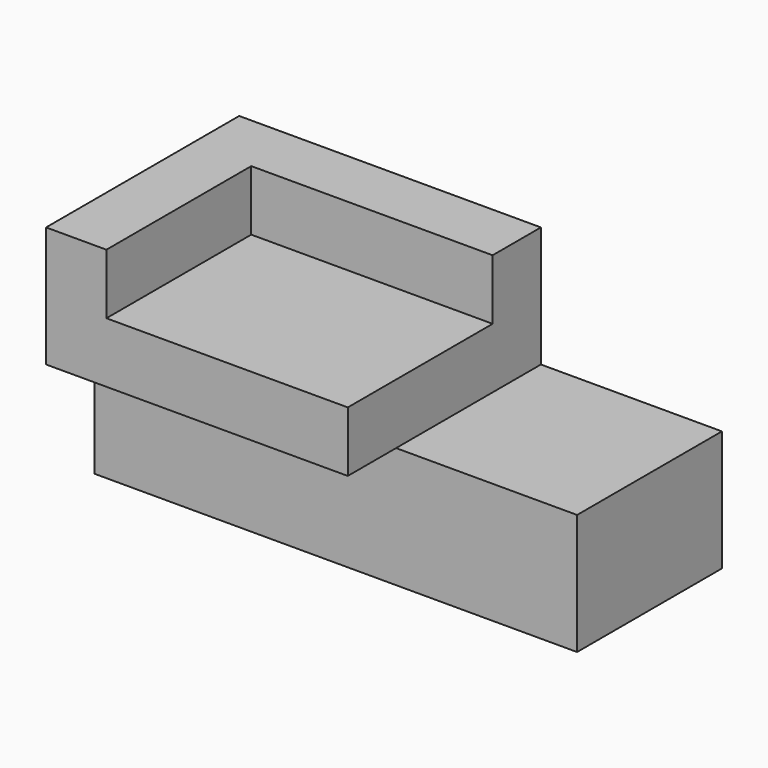
from build123d import *

# Parameters (mm, degrees)
F0_W     = 203.2
F0_H     = 101.6
F1_DEPTH = 101.6
F2_W     = 203.2
F2_H     = 25.4
F3_DEPTH = 50.8
F4_W     = 76.2
F4_H     = 50.8
F5_DEPTH = 101.601
F6_W     = 101.6
F6_H     = 76.2
F7_DEPTH = 25.4


with BuildPart() as f1:
    # F0 (on Front) → F1 (new body)
    with BuildSketch(Plane.XZ):
        with Locations((1.140963, 30.576857)):
            Rectangle(F0_W, F0_H)
    extrude(amount=F1_DEPTH)

    # F2 (on face) → F3 (cut)
    with BuildSketch(Plane(origin=(0, 0, -20.223143), x_dir=(1, 0, 0), z_dir=(0, 0, -1))):
        with Locations((1.140963, 88.9)):
            Rectangle(F2_W, F2_H)
    extrude(amount=-F3_DEPTH, mode=Mode.SUBTRACT)

    # F4 (on face) → F5 (cut, through all)
    with BuildSketch(Plane(origin=(0, 0, 0), x_dir=(-1, 0, 0), z_dir=(0, 1, 0))):
        with Locations((-64.640963, 55.976857)):
            Rectangle(F4_W, F4_H)
    extrude(amount=-F5_DEPTH, mode=Mode.SUBTRACT)

    # F6 (on face) → F7 (cut)
    with BuildSketch(Plane.XY.offset(81.376857)):
        with Locations((-24.259037, -63.5)):
            Rectangle(F6_W, F6_H)
    extrude(amount=-F7_DEPTH, mode=Mode.SUBTRACT)


solid = f1.part
